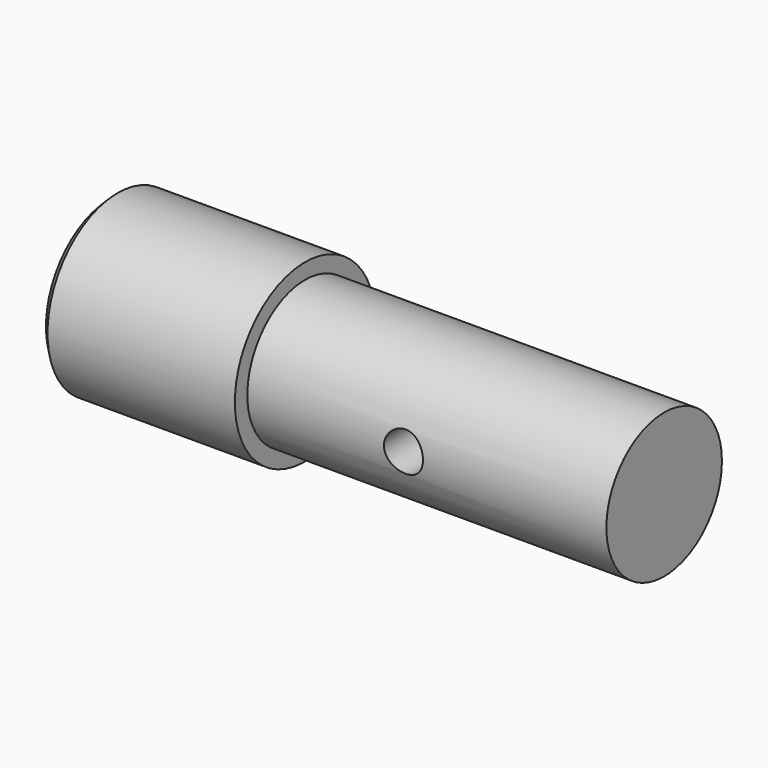
from build123d import *

# Parameters (mm, degrees)
F0_R     = 18.5
F1_DEPTH = 142
F0_R_2   = 22.5
F2_DEPTH = 50
F3_SIZE  = 2
F5_R     = 5
F6_DEPTH = 50


with BuildPart() as f1:
    # F0 (on Right) → F1 (new body)
    with BuildSketch(Plane.YZ):
        Circle(F0_R)
    extrude(amount=F1_DEPTH)

    # F0 (on Right) → F2 (join)
    with BuildSketch(Plane.YZ):
        Circle(F0_R_2)
        Circle(F0_R, mode=Mode.SUBTRACT)
    extrude(amount=F2_DEPTH)

    # F3
    f3_edges = [f1.edges().sort_by_distance(p)[0] for p in [
        (0, -22.5, 0),
    ]]
    chamfer(f3_edges, length=F3_SIZE)

    # F5 (on face) → F6 (cut, symmetric)
    with BuildSketch(Plane.XZ):
        with Locations((90, 0)):
            Circle(F5_R)
    extrude(amount=F6_DEPTH, both=True, mode=Mode.SUBTRACT)


solid = f1.part
